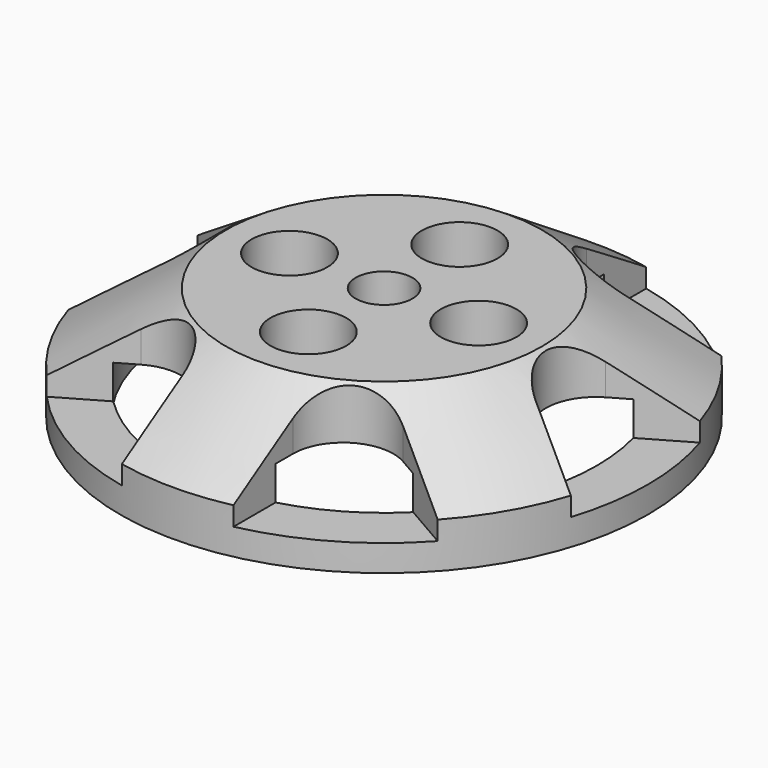
from build123d import *

# Parameters (mm, degrees)
F0_R     = 6.975
F0_R_2   = 5.625
F0_R_3   = 1
F0_R_4   = 0.75
F1_DEPTH = 3
F2_SIZE2 = 1.8
F2_SIZE  = 2.8
F4_DEPTH = 2.3
F5_DEPTH = 1.6


with BuildPart() as f1:
    # F0 (on Top) → F1 (new body)
    with BuildSketch(Plane.XY):
        Circle(F0_R)
        Circle(F0_R_2, mode=Mode.SUBTRACT)
        Circle(F0_R_2)
        with Locations((0, -2.5)):
            Circle(F0_R_3, mode=Mode.SUBTRACT)
        with Locations((-2.5, 0)):
            Circle(F0_R_3, mode=Mode.SUBTRACT)
        Circle(F0_R_4, mode=Mode.SUBTRACT)
        with Locations((2.5, 0)):
            Circle(F0_R_3, mode=Mode.SUBTRACT)
        with Locations((0, 2.5)):
            Circle(F0_R_3, mode=Mode.SUBTRACT)
    extrude(amount=F1_DEPTH)

    # F2
    f2_edges = [f1.edges().sort_by_distance(p)[0] for p in [
        (-6.975, 0, 3),
    ]]
    f2_side = f1.faces().sort_by_distance((-6.777717, 0, 3))[0]
    chamfer(f2_edges, length=F2_SIZE, length2=F2_SIZE2, reference=f2_side)

    # F3 (on face) → F4 (cut, through all)
    with BuildSketch(Plane.XY.offset(3)):
        with BuildLine():
            Line((-1.475, 4.8497422612), (-1.475, 6.8172575131))
            ThreePointArc((-1.475, 6.8172575131), (-3.4875, 6.0405271914), (-5.1664181905, 4.6860162271))
            Line((-5.1664181905, 4.6860162271), (-3.4625, 3.7022586012))
            ThreePointArc((-3.4625, 3.7022586012), (-2.1375, 3.7022586012), (-1.475, 4.8497422612))
        make_face()
        with BuildLine():
            Line((1.475, 6.8172575131), (1.475, 4.8497422612))
            ThreePointArc((1.475, 4.8497422612), (2.1375, 3.7022586012), (3.4625, 3.7022586012))
            Line((3.4625, 3.7022586012), (5.1664181905, 4.6860162271))
            ThreePointArc((5.1664181905, 4.6860162271), (3.4875, 6.0405271914), (1.475, 6.8172575131))
        make_face()
        with BuildLine():
            Line((6.6414181905, 2.131241286), (4.9375, 1.14748366))
            ThreePointArc((4.9375, 1.14748366), (4.275, 0), (4.9375, -1.14748366))
            Line((4.9375, -1.14748366), (6.6414181905, -2.131241286))
            ThreePointArc((6.6414181905, -2.131241286), (6.975, 0), (6.6414181905, 2.131241286))
        make_face()
        with BuildLine():
            Line((5.1664181905, -4.6860162271), (3.4625, -3.7022586012))
            ThreePointArc((3.4625, -3.7022586012), (2.1375, -3.7022586012), (1.475, -4.8497422612))
            Line((1.475, -4.8497422612), (1.475, -6.8172575131))
            ThreePointArc((1.475, -6.8172575131), (3.4875, -6.0405271914), (5.1664181905, -4.6860162271))
        make_face()
        with BuildLine():
            ThreePointArc((-1.475, -4.8497422612), (-2.1375, -3.7022586012), (-3.4625, -3.7022586012))
            Line((-3.4625, -3.7022586012), (-5.1664181905, -4.6860162271))
            ThreePointArc((-5.1664181905, -4.6860162271), (-3.4875, -6.0405271914), (-1.475, -6.8172575131))
            Line((-1.475, -6.8172575131), (-1.475, -4.8497422612))
        make_face()
        with BuildLine():
            ThreePointArc((-4.9375, -1.14748366), (-4.275, 0), (-4.9375, 1.14748366))
            Line((-4.9375, 1.14748366), (-6.6414181905, 2.131241286))
            ThreePointArc((-6.6414181905, 2.131241286), (-6.975, 0), (-6.6414181905, -2.131241286))
            Line((-6.6414181905, -2.131241286), (-4.9375, -1.14748366))
        make_face()
    extrude(amount=-F4_DEPTH, mode=Mode.SUBTRACT)

    # F0 (on Top) → F5 (cut, through all)
    with BuildSketch(Plane.XY):
        Circle(F0_R_2)
        with Locations((0, -2.5)):
            Circle(F0_R_3, mode=Mode.SUBTRACT)
        with Locations((-2.5, 0)):
            Circle(F0_R_3, mode=Mode.SUBTRACT)
        Circle(F0_R_4, mode=Mode.SUBTRACT)
        with Locations((2.5, 0)):
            Circle(F0_R_3, mode=Mode.SUBTRACT)
        with Locations((0, 2.5)):
            Circle(F0_R_3, mode=Mode.SUBTRACT)
    extrude(amount=F5_DEPTH, mode=Mode.SUBTRACT)


solid = f1.part
